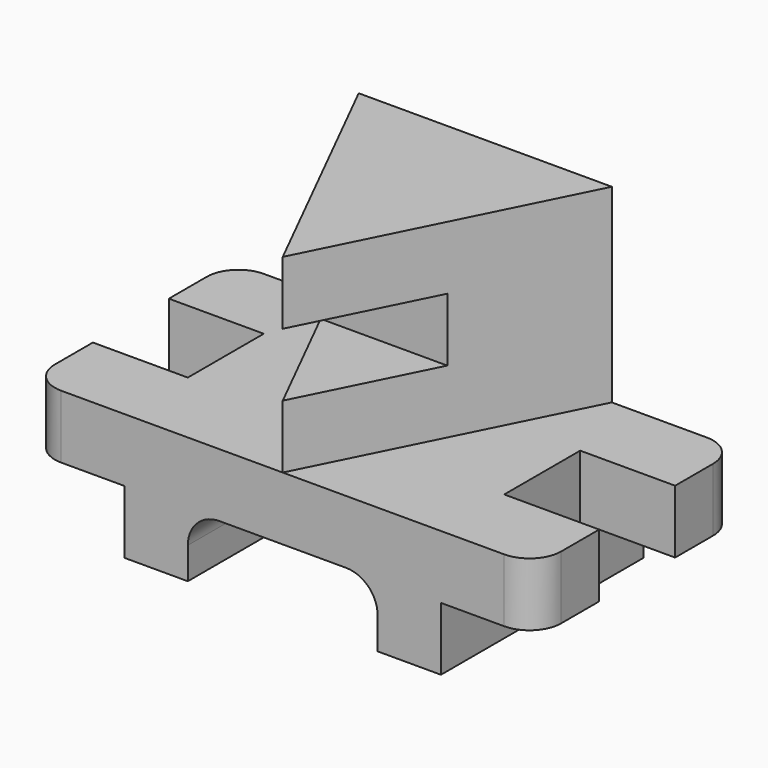
from build123d import *

# Parameters (mm, degrees)
F1_DEPTH = 50.8
F3_DEPTH = 76.2
F2_W     = 38.1
F2_H     = 38.1
F4_DEPTH = 50.801
F5_W     = 50.8
F5_H     = 25.4
F6_DEPTH = 50.8
F7_R     = 12.7
F8_R     = 12.7


with BuildPart() as f1:
    # F0 (on Front) → F1 (new body, symmetric)
    with BuildSketch(Plane.XZ):
        Polygon((101.6, 0), (-101.6, 0), (-101.6, -25.4), (-63.5, -25.4), (-63.5, -50.8), (-38.1, -50.8), (-38.1, -25.4), (38.1, -25.4), (38.1, -50.8), (63.5, -50.8), (63.5, -25.4), (101.6, -25.4), align=None)
    extrude(amount=F1_DEPTH, both=True)

    # F2 (on face) → F3 (join)
    with BuildSketch(Plane.XY):
        Polygon((50.8, 50.8), (-50.8, 50.8), (0, -50.8), align=None)
    extrude(amount=F3_DEPTH)

    # F2 (on face) → F4 (cut, through all)
    with BuildSketch(Plane.XY):
        with Locations((82.55, 0)):
            Rectangle(F2_W, F2_H)
        with Locations((-82.55, 0)):
            Rectangle(F2_W, F2_H)
    extrude(amount=-F4_DEPTH, mode=Mode.SUBTRACT)

    # F5 (on face) → F6 (cut)
    with BuildSketch(Plane.XZ.offset(50.8)):
        with Locations((0, 38.1)):
            Rectangle(F5_W, F5_H)
    extrude(amount=-F6_DEPTH, mode=Mode.SUBTRACT)

    # F7
    f7_edges = [f1.edges().sort_by_distance(p)[0] for p in [
        (101.6, 50.8, -12.7),
        (101.6, -50.8, -12.7),
        (-101.6, -50.8, -12.7),
        (-101.6, 50.8, -12.7),
    ]]
    fillet(f7_edges, radius=F7_R)

    # F8
    f8_edges = [f1.edges().sort_by_distance(p)[0] for p in [
        (-38.1, 0, -25.4),
        (38.1, 0, -25.4),
    ]]
    fillet(f8_edges, radius=F8_R)


solid = f1.part
